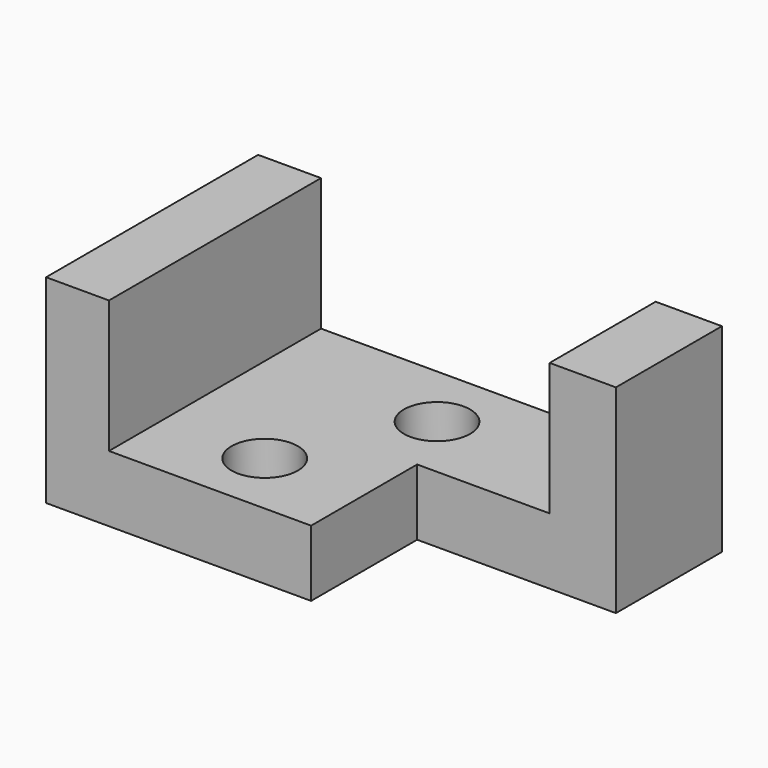
from build123d import *

# Parameters (mm, degrees)
F1_DEPTH = 10
F2_W     = 9.492815
F2_H     = 40
F3_DEPTH = 20
F4_W     = 10
F4_H     = 20
F5_DEPTH = 20
F6_R     = 5
F7_DEPTH = 10.001
F8_R     = 5
F9_DEPTH = 10.001


with BuildPart() as f1:
    # F0 (on Top) → F1 (new body)
    with BuildSketch(Plane.XY):
        Polygon((0, 40), (0, 0), (40, 0), (40, 20), (70, 20), (70, 40), align=None)
    extrude(amount=F1_DEPTH)

    # F2 (on face) → F3 (join)
    with BuildSketch(Plane.XY.offset(10)):
        with Locations((4.746408, 20)):
            Rectangle(F2_W, F2_H)
    extrude(amount=F3_DEPTH)

    # F4 (on face) → F5 (join)
    with BuildSketch(Plane.XY.offset(10)):
        with Locations((65, 30)):
            Rectangle(F4_W, F4_H)
    extrude(amount=F5_DEPTH)

    # F6 (on face) → F7 (cut, through all)
    with BuildSketch(Plane.XY.offset(10)):
        with Locations((25, 10)):
            Circle(F6_R)
    extrude(amount=-F7_DEPTH, mode=Mode.SUBTRACT)

    # F8 (on face) → F9 (cut, through all)
    with BuildSketch(Plane.XY.offset(10)):
        with Locations((35, 30)):
            Circle(F8_R)
    extrude(amount=-F9_DEPTH, mode=Mode.SUBTRACT)


solid = f1.part
